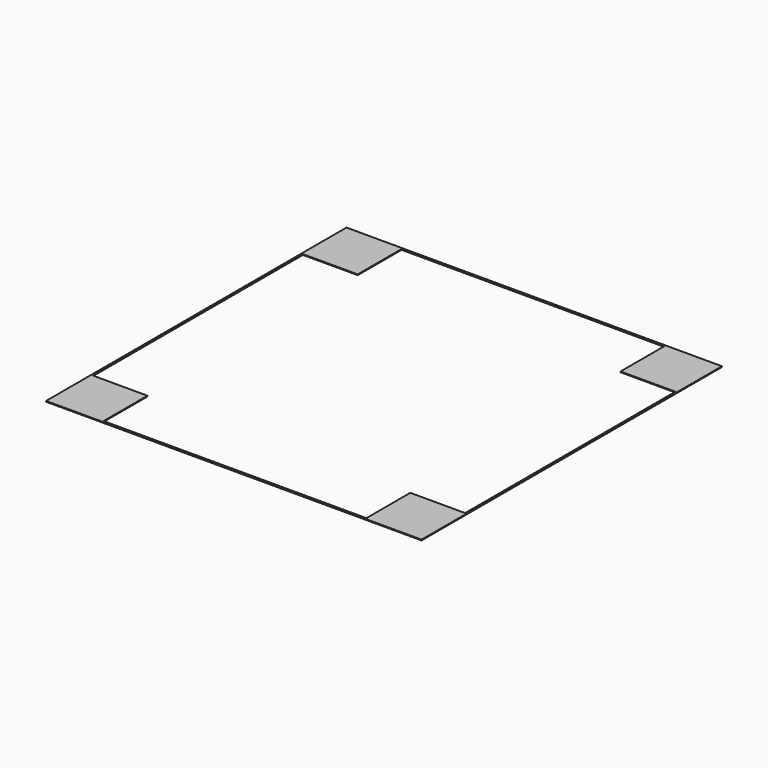
from build123d import *

# Parameters (mm, degrees)
F0_W     = 15
F0_H     = 15
F1_DEPTH = 0.2
F2_W     = 100
F2_H     = 100
F2_W_2   = 99.2
F2_H_2   = 99.2
F3_DEPTH = 0.2


with BuildPart() as f1:
    # F0 (on Top) → F1 (new body)
    with BuildSketch(Plane.XY):
        with Locations((-42.5, 42.5)):
            Rectangle(F0_W, F0_H)
        with Locations((42.5, 42.5)):
            Rectangle(F0_W, F0_H)
        with Locations((42.5, -42.5)):
            Rectangle(F0_W, F0_H)
        with Locations((-42.5, -42.5)):
            Rectangle(F0_W, F0_H)
    extrude(amount=F1_DEPTH)

    # F2 (on Top) → F3 (join)
    with BuildSketch(Plane.XY):
        Rectangle(F2_W, F2_H)
        Rectangle(F2_W_2, F2_H_2, mode=Mode.SUBTRACT)
    extrude(amount=F3_DEPTH)


solid = f1.part
